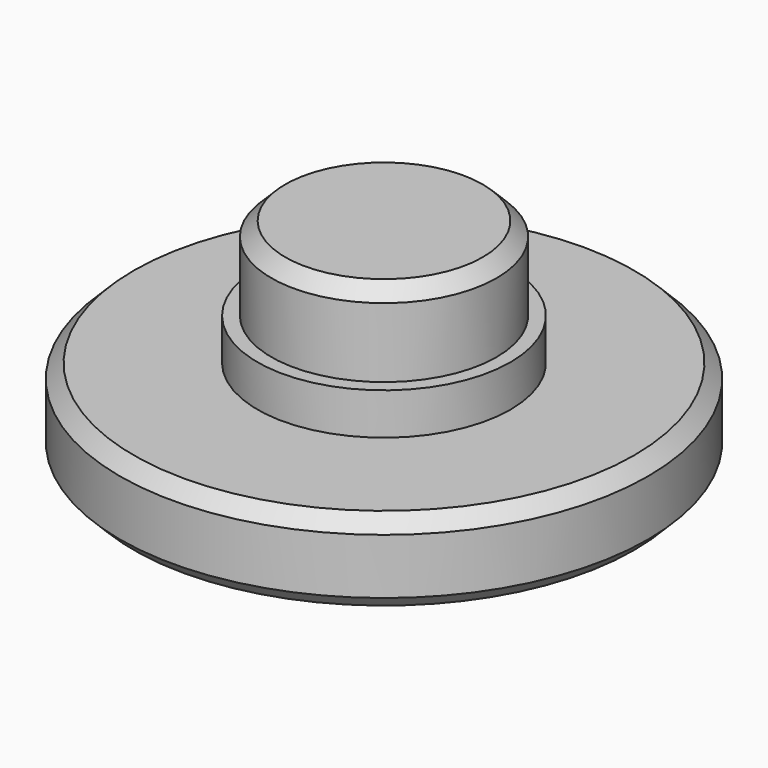
from build123d import *

# Parameters (mm, degrees)
F0_R     = 9.5
F1_DEPTH = 3
F2_R     = 4.05
F3_DEPTH = 4.5
F4_SIZE  = 0.5
F5_R     = 4.55
F6_DEPTH = 1.5


with BuildPart() as f1:
    # F0 (on Top) → F1 (new body)
    with BuildSketch(Plane.XY):
        Circle(F0_R)
    extrude(amount=F1_DEPTH)

    # F2 (on face) → F3 (join)
    with BuildSketch(Plane.XY.offset(3)):
        Circle(F2_R)
    extrude(amount=F3_DEPTH)

    # F4
    f4_edges = [f1.edges().sort_by_distance(p)[0] for p in [
        (-4.05, 0, 7.5),
        (-9.5, 0, 3),
        (-9.5, 0, 0),
    ]]
    chamfer(f4_edges, length=F4_SIZE)

    # F5 (on face) → F6 (join)
    with BuildSketch(Plane.XY.offset(3)):
        Circle(F5_R)
    extrude(amount=F6_DEPTH)


solid = f1.part
